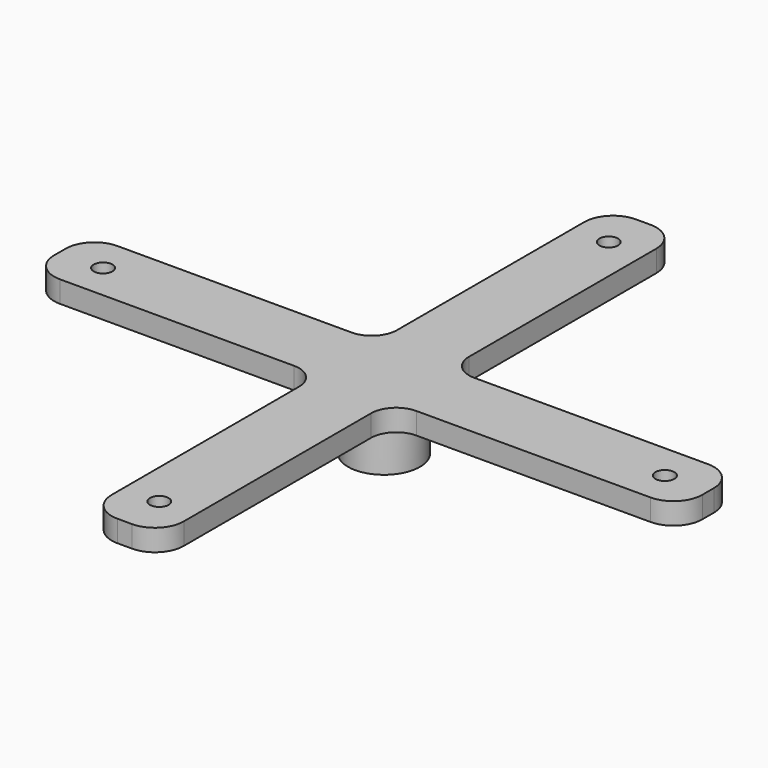
from build123d import *

# Parameters (mm, degrees)
SKETCH002_R  = 5
PAD002_DEPTH = 7
SKETCH_R     = 1.15
POCKET_DEPTH = 5
SKETCH003_R  = 1.3
PAD_DEPTH    = 3


with BuildPart() as part:
    # Sketch002 → Pad002 (new body)
    with BuildSketch(Plane(origin=(0, 0, 0), x_dir=(-1, 0, 0), z_dir=(0, 0, 1))):
        Circle(SKETCH002_R)
        with BuildLine():
            ThreePointArc((2.15, 1.549193), (-2.65, 0), (2.15, -1.549193))
            Line((2.15, 1.549193), (2.15, -1.549193))
        make_face(mode=Mode.SUBTRACT)
    extrude(amount=-PAD002_DEPTH)

    # Sketch → Pocket (cut)
    with BuildSketch(Plane(origin=(0, 0, -3.5), x_dir=(0, 1, 0), z_dir=(1, 0, 0))):
        Circle(SKETCH_R)
    extrude(amount=-POCKET_DEPTH, mode=Mode.SUBTRACT)

    # Sketch003 → Pad (join)
    with BuildSketch(Plane.XY):
        with BuildLine():
            Line((-41, 5), (-8.5, 5))
            ThreePointArc((-8.5, 5), (-6.025126, 6.025126), (-5, 8.5))
            Line((-5, 8.5), (-5, 41))
            ThreePointArc((-1, 45), (-3.828427, 43.828427), (-5, 41))
            Line((-1, 45), (1, 45))
            ThreePointArc((5, 41), (3.828427, 43.828427), (1, 45))
            Line((5, 41), (5, 8.5))
            ThreePointArc((5, 8.5), (6.025126, 6.025126), (8.5, 5))
            Line((8.5, 5), (41, 5))
            ThreePointArc((45, 1), (43.828427, 3.828427), (41, 5))
            Line((45, 1), (45, -1))
            ThreePointArc((41, -5), (43.828427, -3.828427), (45, -1))
            Line((41, -5), (8.5, -5))
            ThreePointArc((8.5, -5), (6.025126, -6.025126), (5, -8.5))
            Line((5, -8.5), (5, -41))
            ThreePointArc((1, -45), (3.828427, -43.828427), (5, -41))
            Line((1, -45), (-1, -45))
            ThreePointArc((-5, -41), (-3.828427, -43.828427), (-1, -45))
            Line((-5, -41), (-5, -8.5))
            ThreePointArc((-5, -8.5), (-6.025126, -6.025126), (-8.5, -5))
            Line((-8.5, -5), (-41, -5))
            ThreePointArc((-45, -1), (-43.828427, -3.828427), (-41, -5))
            Line((-45, -1), (-45, 1))
            ThreePointArc((-41, 5), (-43.828427, 3.828427), (-45, 1))
        make_face()
        with Locations((39, 0)):
            Circle(SKETCH003_R, mode=Mode.SUBTRACT)
        with Locations((-39, 0)):
            Circle(SKETCH003_R, mode=Mode.SUBTRACT)
        with Locations((0, 39)):
            Circle(SKETCH003_R, mode=Mode.SUBTRACT)
        with Locations((0, -39)):
            Circle(SKETCH003_R, mode=Mode.SUBTRACT)
    extrude(amount=PAD_DEPTH)


solid = part.part
